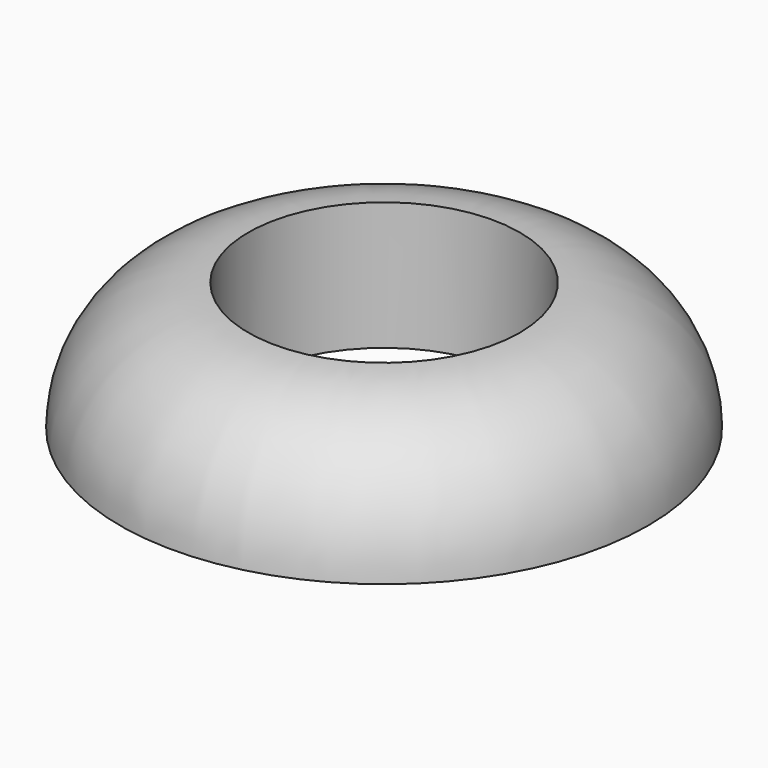
from build123d import *


with BuildPart() as f1:
    # F0 (on Front) → F1 (revolve)
    with BuildSketch(Plane.XZ):
        with BuildLine():
            ThreePointArc((46.781804, 0), (33.079731, 33.079731), (0, 46.781804))
            Line((0, 46.781804), (0, 0))
            Line((0, 0), (46.781804, 0))
        make_face()
    revolve(axis=Axis((-49.55082, 0, 23.390902), (0, 0, 1)))


solid = f1.part
